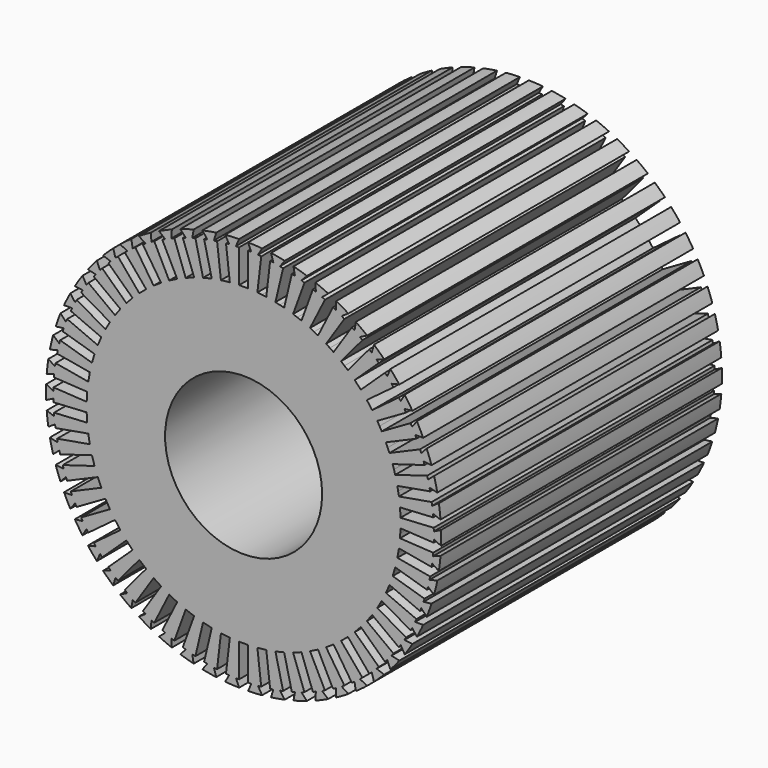
from build123d import *

# Parameters (mm, degrees)
F0_R     = 98
F1_DEPTH = 438


with BuildPart() as f1:
    # F0 (on Front) → F1 (new body)
    with BuildSketch(Plane.XZ):
        with BuildLine():
            Line((-9.6, 237.27123), (-5.6, 246.436381))
            ThreePointArc((-5.6, 246.436381), (-14.332701, 246.082961), (-23.047384, 245.420187))
            Line((-23.047384, 245.420187), (-18.010421, 236.781379))
            Line((-18.010421, 236.781379), (-21.983375, 236.317007))
            Line((-21.983375, 236.317007), (-17.173082, 195.162326))
            Line((-17.173082, 195.162326), (-22.735217, 194.512206))
            Line((-22.735217, 194.512206), (-28.297352, 193.862085))
            Line((-28.297352, 193.862085), (-33.107644, 235.016766))
            Line((-33.107644, 235.016766), (-37.080598, 234.552395))
            Line((-37.080598, 234.552395), (-34.171653, 244.119946))
            ThreePointArc((-34.171653, 244.119946), (-42.804277, 242.755111), (-51.38309, 241.085105))
            Line((-51.38309, 241.085105), (-45.377281, 233.089465))
            Line((-45.377281, 233.089465), (-49.269461, 232.167002))
            Line((-49.269461, 232.167002), (-39.713927, 191.849035))
            Line((-39.713927, 191.849035), (-45.162978, 190.557586))
            Line((-45.162978, 190.557586), (-50.61203, 189.266137))
            Line((-50.61203, 189.266137), (-60.167563, 229.584104))
            Line((-60.167563, 229.584104), (-64.059743, 228.661641))
            Line((-64.059743, 228.661641), (-62.281193, 238.502208))
            ThreePointArc((-62.281193, 238.502208), (-70.696998, 236.144415), (-79.023929, 233.489761))
            Line((-79.023929, 233.489761), (-72.130492, 226.245417))
            Line((-72.130492, 226.245417), (-75.889262, 224.877336))
            Line((-75.889262, 224.877336), (-61.717709, 185.941315))
            Line((-61.717709, 185.941315), (-66.979988, 184.026002))
            Line((-66.979988, 184.026002), (-72.242267, 182.110689))
            Line((-72.242267, 182.110689), (-86.41382, 221.046711))
            Line((-86.41382, 221.046711), (-90.17259, 219.67863))
            Line((-90.17259, 219.67863), (-89.548486, 229.659136))
            ThreePointArc((-89.548486, 229.659136), (-97.633663, 226.34027), (-105.596104, 222.736869))
            Line((-105.596104, 222.736869), (-97.908261, 216.341787))
            Line((-97.908261, 216.341787), (-101.482791, 214.546591))
            Line((-101.482791, 214.546591), (-82.886865, 177.519058))
            Line((-82.886865, 177.519058), (-87.891208, 175.005782))
            Line((-87.891208, 175.005782), (-92.895551, 172.492507))
            Line((-92.895551, 172.492507), (-111.491477, 209.52004))
            Line((-111.491477, 209.52004), (-115.066008, 207.724843))
            Line((-115.066008, 207.724843), (-115.604789, 217.710318))
            ThreePointArc((-115.604789, 217.710318), (-123.250001, 213.475262), (-130.740273, 208.971843))
            Line((-130.740273, 208.971843), (-122.361989, 203.512506))
            Line((-122.361989, 203.512506), (-125.70394, 201.31447))
            Line((-125.70394, 201.31447), (-102.935119, 166.696159))
            Line((-102.935119, 166.696159), (-107.61385, 163.618909))
            Line((-107.61385, 163.618909), (-112.292582, 160.541659))
            Line((-112.292582, 160.541659), (-135.061403, 195.15997))
            Line((-135.061403, 195.15997), (-138.403355, 192.961934))
            Line((-138.403355, 192.961934), (-140.097736, 202.817342))
            ThreePointArc((-140.097736, 202.817342), (-147.199594, 197.723367), (-154.116404, 192.380831))
            Line((-154.116404, 192.380831), (-145.160981, 187.931068))
            Line((-145.160981, 187.931068), (-148.225158, 185.359917))
            Line((-148.225158, 185.359917), (-121.591351, 153.618982))
            Line((-121.591351, 153.618982), (-125.8812, 150.019371))
            Line((-125.8812, 150.019371), (-130.171049, 146.419761))
            Line((-130.171049, 146.419761), (-156.804856, 178.160696))
            Line((-156.804856, 178.160696), (-159.869034, 175.589546))
            Line((-159.869034, 175.589546), (-162.696102, 185.181609))
            ThreePointArc((-162.696102, 185.181609), (-169.158564, 179.297602), (-175.408375, 173.188198))
            Line((-175.408375, 173.188198), (-165.996919, 169.808184))
            Line((-165.996919, 169.808184), (-168.741886, 166.898689))
            Line((-168.741886, 166.898689), (-138.603269, 138.464371))
            Line((-138.603269, 138.464371), (-142.446222, 134.391079))
            Line((-142.446222, 134.391079), (-146.289175, 130.317786))
            Line((-146.289175, 130.317786), (-176.427792, 158.752104))
            Line((-176.427792, 158.752104), (-179.172759, 155.84261))
            Line((-179.172759, 155.84261), (-183.094282, 165.041613))
            ThreePointArc((-183.094282, 165.041613), (-188.829956, 158.447145), (-194.328249, 151.653492))
            Line((-194.328249, 151.653492), (-184.588034, 149.388936))
            Line((-184.588034, 149.388936), (-186.976669, 146.180443))
            Line((-186.976669, 146.180443), (-153.740816, 121.437267))
            Line((-153.740816, 121.437267), (-157.084904, 116.945377))
            Line((-157.084904, 116.945377), (-160.428992, 112.453487))
            Line((-160.428992, 112.453487), (-193.664845, 137.196663))
            Line((-193.664845, 137.196663), (-196.053479, 133.98817))
            Line((-196.053479, 133.98817), (-201.016426, 142.669712))
            ThreePointArc((-201.016426, 142.669712), (-205.947746, 135.453962), (-210.620167, 128.067932))
            Line((-210.620167, 128.067932), (-200.682913, 126.949458))
            Line((-200.682913, 126.949458), (-202.682913, 123.485357))
            Line((-202.682913, 123.485357), (-166.799281, 102.767932))
            Line((-166.799281, 102.767932), (-169.599281, 97.91819))
            Line((-169.599281, 97.91819), (-172.399281, 93.068448))
            Line((-172.399281, 93.068448), (-208.282913, 113.785872))
            Line((-208.282913, 113.785872), (-210.282913, 110.32177))
            Line((-210.282913, 110.32177), (-216.220167, 118.368448))
            ThreePointArc((-216.220167, 118.368448), (-220.280446, 110.628997), (-224.063808, 102.750474))
            Line((-224.063808, 102.750474), (-214.0639, 102.793207))
            Line((-214.0639, 102.793207), (-215.648219, 99.120343))
            Line((-215.648219, 99.120343), (-177.602073, 82.708838))
            Line((-177.602073, 82.708838), (-179.82012, 77.566828))
            Line((-179.82012, 77.566828), (-182.038166, 72.424817))
            Line((-182.038166, 72.424817), (-220.084312, 88.836322))
            Line((-220.084312, 88.836322), (-221.668631, 85.163458))
            Line((-221.668631, 85.163458), (-228.499902, 92.466453))
            ThreePointArc((-228.499902, 92.466453), (-231.634231, 84.307965), (-234.477371, 76.043491))
            Line((-234.477371, 76.043491), (-224.550039, 77.246854))
            Line((-224.550039, 77.246854), (-225.697252, 73.414896))
            Line((-225.697252, 73.414896), (-186.003101, 61.531248))
            Line((-186.003101, 61.531248), (-187.6092, 56.166507))
            Line((-187.6092, 56.166507), (-189.215298, 50.801765))
            Line((-189.215298, 50.801765), (-228.909448, 62.685414))
            Line((-228.909448, 62.685414), (-230.056661, 58.853456))
            Line((-230.056661, 58.853456), (-237.689567, 65.314009))
            ThreePointArc((-237.689567, 65.314009), (-239.855561, 56.846811), (-241.720029, 48.308151))
            Line((-241.720029, 48.308151), (-231.999524, 50.65587))
            Line((-231.999524, 50.65587), (-232.694117, 46.716639))
            Line((-232.694117, 46.716639), (-191.888757, 39.521554))
            Line((-191.888757, 39.521554), (-192.861187, 34.00663))
            Line((-192.861187, 34.00663), (-193.833616, 28.491707))
            Line((-193.833616, 28.491707), (-234.638977, 35.686793))
            Line((-234.638977, 35.686793), (-235.333569, 31.747562))
            Line((-235.333569, 31.747562), (-243.664889, 37.278304))
            ThreePointArc((-243.664889, 37.278304), (-244.833255, 28.616903), (-245.693839, 19.919526))
            Line((-245.693839, 19.919526), (-236.311614, 23.379853))
            Line((-236.311614, 23.379853), (-236.544193, 19.38662))
            Line((-236.544193, 19.38662), (-195.179446, 16.977398))
            Line((-195.179446, 16.977398), (-195.505057, 11.386872))
            Line((-195.505057, 11.386872), (-195.830668, 5.796347))
            Line((-195.830668, 5.796347), (-237.195416, 8.205569))
            Line((-237.195416, 8.205569), (-237.427995, 4.212336))
            Line((-237.427995, 4.212336), (-246.345061, 8.738475))
            ThreePointArc((-246.345061, 8.738475), (-246.5, -1e-06), (-246.345061, -8.738476))
            Line((-246.345061, -8.738476), (-237.427995, -4.212337))
            Line((-237.427995, -4.212337), (-237.195416, -8.20557))
            Line((-237.195416, -8.20557), (-195.830668, -5.796348))
            Line((-195.830668, -5.796348), (-195.505057, -11.386873))
            Line((-195.505057, -11.386873), (-195.179446, -16.977399))
            Line((-195.179446, -16.977399), (-236.544193, -19.386621))
            Line((-236.544193, -19.386621), (-236.311614, -23.379854))
            Line((-236.311614, -23.379854), (-245.693839, -19.919528))
            ThreePointArc((-245.693839, -19.919528), (-244.833255, -28.616904), (-243.664889, -37.278306))
            Line((-243.664889, -37.278306), (-235.333569, -31.747563))
            Line((-235.333569, -31.747563), (-234.638976, -35.686794))
            Line((-234.638976, -35.686794), (-193.833616, -28.491708))
            Line((-193.833616, -28.491708), (-192.861186, -34.006631))
            Line((-192.861186, -34.006631), (-191.888757, -39.521555))
            Line((-191.888757, -39.521555), (-232.694117, -46.716641))
            Line((-232.694117, -46.716641), (-231.999524, -50.655872))
            Line((-231.999524, -50.655872), (-241.720029, -48.308153))
            ThreePointArc((-241.720029, -48.308153), (-239.85556, -56.846813), (-237.689567, -65.31401))
            Line((-237.689567, -65.31401), (-230.056661, -58.853457))
            Line((-230.056661, -58.853457), (-228.909448, -62.685415))
            Line((-228.909448, -62.685415), (-189.215297, -50.801766))
            Line((-189.215297, -50.801766), (-187.609199, -56.166508))
            Line((-187.609199, -56.166508), (-186.003101, -61.531249))
            Line((-186.003101, -61.531249), (-225.697251, -73.414898))
            Line((-225.697251, -73.414898), (-224.550039, -77.246856))
            Line((-224.550039, -77.246856), (-234.47737, -76.043493))
            ThreePointArc((-234.47737, -76.043493), (-231.634231, -84.307966), (-228.499901, -92.466455))
            Line((-228.499901, -92.466455), (-221.66863, -85.163459))
            Line((-221.66863, -85.163459), (-220.084311, -88.836324))
            Line((-220.084311, -88.836324), (-182.038166, -72.424818))
            Line((-182.038166, -72.424818), (-179.820119, -77.566829))
            Line((-179.820119, -77.566829), (-177.602073, -82.708839))
            Line((-177.602073, -82.708839), (-215.648218, -99.120344))
            Line((-215.648218, -99.120344), (-214.063899, -102.793208))
            Line((-214.063899, -102.793208), (-224.063808, -102.750475))
            ThreePointArc((-224.063808, -102.750475), (-220.280446, -110.628998), (-216.220166, -118.368449))
            Line((-216.220166, -118.368449), (-210.282912, -110.321772))
            Line((-210.282912, -110.321772), (-208.282912, -113.785873))
            Line((-208.282912, -113.785873), (-172.399281, -93.068449))
            Line((-172.399281, -93.068449), (-169.599281, -97.918191))
            Line((-169.599281, -97.918191), (-166.799281, -102.767933))
            Line((-166.799281, -102.767933), (-202.682912, -123.485358))
            Line((-202.682912, -123.485358), (-200.682912, -126.949459))
            Line((-200.682912, -126.949459), (-210.620166, -128.067933))
            ThreePointArc((-210.620166, -128.067933), (-205.947745, -135.453964), (-201.016425, -142.669713))
            Line((-201.016425, -142.669713), (-196.053479, -133.988171))
            Line((-196.053479, -133.988171), (-193.664844, -137.196664))
            Line((-193.664844, -137.196664), (-160.428991, -112.453488))
            Line((-160.428991, -112.453488), (-157.084903, -116.945378))
            Line((-157.084903, -116.945378), (-153.740815, -121.437268))
            Line((-153.740815, -121.437268), (-186.976668, -146.180444))
            Line((-186.976668, -146.180444), (-184.588034, -149.388937))
            Line((-184.588034, -149.388937), (-194.328248, -151.653493))
            ThreePointArc((-194.328248, -151.653493), (-188.829955, -158.447146), (-183.094281, -165.041614))
            Line((-183.094281, -165.041614), (-179.172758, -155.842611))
            Line((-179.172758, -155.842611), (-176.427791, -158.752105))
            Line((-176.427791, -158.752105), (-146.289175, -130.317787))
            Line((-146.289175, -130.317787), (-142.446221, -134.391079))
            Line((-142.446221, -134.391079), (-138.603268, -138.464372))
            Line((-138.603268, -138.464372), (-168.741885, -166.89869))
            Line((-168.741885, -166.89869), (-165.996918, -169.808185))
            Line((-165.996918, -169.808185), (-175.408374, -173.188199))
            ThreePointArc((-175.408374, -173.188199), (-169.158563, -179.297603), (-162.696101, -185.18161))
            Line((-162.696101, -185.18161), (-159.869033, -175.589546))
            Line((-159.869033, -175.589546), (-156.804855, -178.160697))
            Line((-156.804855, -178.160697), (-130.171048, -146.419761))
            Line((-130.171048, -146.419761), (-125.881199, -150.019372))
            Line((-125.881199, -150.019372), (-121.59135, -153.618983))
            Line((-121.59135, -153.618983), (-148.225157, -185.359918))
            Line((-148.225157, -185.359918), (-145.16098, -187.931069))
            Line((-145.16098, -187.931069), (-154.116403, -192.380831))
            ThreePointArc((-154.116403, -192.380831), (-147.199592, -197.723367), (-140.097735, -202.817343))
            Line((-140.097735, -202.817343), (-138.403354, -192.961935))
            Line((-138.403354, -192.961935), (-135.061402, -195.159971))
            Line((-135.061402, -195.159971), (-112.292581, -160.54166))
            Line((-112.292581, -160.54166), (-107.613849, -163.61891))
            Line((-107.613849, -163.61891), (-102.935118, -166.69616))
            Line((-102.935118, -166.69616), (-125.703939, -201.314471))
            Line((-125.703939, -201.314471), (-122.361988, -203.512507))
            Line((-122.361988, -203.512507), (-130.740272, -208.971843))
            ThreePointArc((-130.740272, -208.971843), (-123.25, -213.475262), (-115.604788, -217.710319))
            Line((-115.604788, -217.710319), (-115.066006, -207.724844))
            Line((-115.066006, -207.724844), (-111.491476, -209.52004))
            Line((-111.491476, -209.52004), (-92.89555, -172.492507))
            Line((-92.89555, -172.492507), (-87.891207, -175.005783))
            Line((-87.891207, -175.005783), (-82.886864, -177.519058))
            Line((-82.886864, -177.519058), (-101.48279, -214.546591))
            Line((-101.48279, -214.546591), (-97.90826, -216.341788))
            Line((-97.90826, -216.341788), (-105.596103, -222.73687))
            ThreePointArc((-105.596103, -222.73687), (-97.633662, -226.340271), (-89.548485, -229.659136))
            Line((-89.548485, -229.659136), (-90.172589, -219.678631))
            Line((-90.172589, -219.678631), (-86.413818, -221.046711))
            Line((-86.413818, -221.046711), (-72.242265, -182.11069))
            Line((-72.242265, -182.11069), (-66.979987, -184.026002))
            Line((-66.979987, -184.026002), (-61.717708, -185.941315))
            Line((-61.717708, -185.941315), (-75.889261, -224.877337))
            Line((-75.889261, -224.877337), (-72.13049, -226.245417))
            Line((-72.13049, -226.245417), (-79.023927, -233.489762))
            ThreePointArc((-79.023927, -233.489762), (-70.696996, -236.144415), (-62.281191, -238.502208))
            Line((-62.281191, -238.502208), (-64.059742, -228.661641))
            Line((-64.059742, -228.661641), (-60.167562, -229.584104))
            Line((-60.167562, -229.584104), (-50.612028, -189.266137))
            Line((-50.612028, -189.266137), (-45.162977, -190.557586))
            Line((-45.162977, -190.557586), (-39.713926, -191.849035))
            Line((-39.713926, -191.849035), (-49.26946, -232.167002))
            Line((-49.26946, -232.167002), (-45.37728, -233.089466))
            Line((-45.37728, -233.089466), (-51.383089, -241.085106))
            ThreePointArc((-51.383089, -241.085106), (-42.804275, -242.755111), (-34.171652, -244.119946))
            Line((-34.171652, -244.119946), (-37.080596, -234.552395))
            Line((-37.080596, -234.552395), (-33.107643, -235.016766))
            Line((-33.107643, -235.016766), (-28.297351, -193.862085))
            Line((-28.297351, -193.862085), (-22.735216, -194.512206))
            Line((-22.735216, -194.512206), (-17.173081, -195.162326))
            Line((-17.173081, -195.162326), (-21.983373, -236.317007))
            Line((-21.983373, -236.317007), (-18.01042, -236.781379))
            Line((-18.01042, -236.781379), (-23.047382, -245.420187))
            ThreePointArc((-23.047382, -245.420187), (-14.3327, -246.082961), (-5.6, -246.436381))
            Line((-5.6, -246.436381), (-9.6, -237.27123))
            Line((-9.6, -237.27123), (-5.6, -237.27123))
            Line((-5.6, -237.27123), (-5.6, -195.836381))
            Line((-5.6, -195.836381), (0, -195.836381))
            Line((0, -195.836381), (5.6, -195.836381))
            Line((5.6, -195.836381), (5.6, -237.27123))
            Line((5.6, -237.27123), (9.6, -237.27123))
            Line((9.6, -237.27123), (5.6, -246.436381))
            ThreePointArc((5.6, -246.436381), (14.332701, -246.082961), (23.047383, -245.420187))
            Line((23.047383, -245.420187), (18.010421, -236.781379))
            Line((18.010421, -236.781379), (21.983374, -236.317007))
            Line((21.983374, -236.317007), (17.173082, -195.162326))
            Line((17.173082, -195.162326), (22.735217, -194.512206))
            Line((22.735217, -194.512206), (28.297351, -193.862085))
            Line((28.297351, -193.862085), (33.107644, -235.016766))
            Line((33.107644, -235.016766), (37.080597, -234.552395))
            Line((37.080597, -234.552395), (34.171653, -244.119946))
            ThreePointArc((34.171653, -244.119946), (42.804276, -242.755111), (51.38309, -241.085105))
            Line((51.38309, -241.085105), (45.377281, -233.089465))
            Line((45.377281, -233.089465), (49.26946, -232.167002))
            Line((49.26946, -232.167002), (39.713927, -191.849035))
            Line((39.713927, -191.849035), (45.162978, -190.557586))
            Line((45.162978, -190.557586), (50.612029, -189.266137))
            Line((50.612029, -189.266137), (60.167563, -229.584104))
            Line((60.167563, -229.584104), (64.059742, -228.661641))
            Line((64.059742, -228.661641), (62.281192, -238.502208))
            ThreePointArc((62.281192, -238.502208), (70.696997, -236.144415), (79.023928, -233.489762))
            Line((79.023928, -233.489762), (72.130491, -226.245417))
            Line((72.130491, -226.245417), (75.889262, -224.877336))
            Line((75.889262, -224.877336), (61.717709, -185.941315))
            Line((61.717709, -185.941315), (66.979987, -184.026002))
            Line((66.979987, -184.026002), (72.242266, -182.110689))
            Line((72.242266, -182.110689), (86.413819, -221.046711))
            Line((86.413819, -221.046711), (90.17259, -219.67863))
            Line((90.17259, -219.67863), (89.548485, -229.659136))
            ThreePointArc((89.548485, -229.659136), (97.633663, -226.34027), (105.596103, -222.736869))
            Line((105.596103, -222.736869), (97.90826, -216.341788))
            Line((97.90826, -216.341788), (101.482791, -214.546591))
            Line((101.482791, -214.546591), (82.886865, -177.519058))
            Line((82.886865, -177.519058), (87.891208, -175.005782))
            Line((87.891208, -175.005782), (92.89555, -172.492507))
            Line((92.89555, -172.492507), (111.491477, -209.52004))
            Line((111.491477, -209.52004), (115.066007, -207.724843))
            Line((115.066007, -207.724843), (115.604789, -217.710318))
            ThreePointArc((115.604789, -217.710318), (123.25, -213.475262), (130.740273, -208.971843))
            Line((130.740273, -208.971843), (122.361988, -203.512507))
            Line((122.361988, -203.512507), (125.70394, -201.314471))
            Line((125.70394, -201.314471), (102.935118, -166.69616))
            Line((102.935118, -166.69616), (107.61385, -163.618909))
            Line((107.61385, -163.618909), (112.292582, -160.541659))
            Line((112.292582, -160.541659), (135.061403, -195.15997))
            Line((135.061403, -195.15997), (138.403354, -192.961934))
            Line((138.403354, -192.961934), (140.097736, -202.817342))
            ThreePointArc((140.097736, -202.817342), (147.199593, -197.723367), (154.116404, -192.380831))
            Line((154.116404, -192.380831), (145.16098, -187.931068))
            Line((145.16098, -187.931068), (148.225158, -185.359918))
            Line((148.225158, -185.359918), (121.591351, -153.618982))
            Line((121.591351, -153.618982), (125.8812, -150.019371))
            Line((125.8812, -150.019371), (130.171048, -146.419761))
            Line((130.171048, -146.419761), (156.804856, -178.160696))
            Line((156.804856, -178.160696), (159.869034, -175.589546))
            Line((159.869034, -175.589546), (162.696102, -185.18161))
            ThreePointArc((162.696102, -185.18161), (169.158564, -179.297602), (175.408375, -173.188198))
            Line((175.408375, -173.188198), (165.996919, -169.808184))
            Line((165.996919, -169.808184), (168.741886, -166.89869))
            Line((168.741886, -166.89869), (138.603269, -138.464371))
            Line((138.603269, -138.464371), (142.446222, -134.391079))
            Line((142.446222, -134.391079), (146.289175, -130.317786))
            Line((146.289175, -130.317786), (176.427792, -158.752105))
            Line((176.427792, -158.752105), (179.172758, -155.84261))
            Line((179.172758, -155.84261), (183.094281, -165.041613))
            ThreePointArc((183.094281, -165.041613), (188.829955, -158.447146), (194.328249, -151.653492))
            Line((194.328249, -151.653492), (184.588034, -149.388936))
            Line((184.588034, -149.388936), (186.976669, -146.180443))
            Line((186.976669, -146.180443), (153.740815, -121.437267))
            Line((153.740815, -121.437267), (157.084904, -116.945377))
            Line((157.084904, -116.945377), (160.428992, -112.453488))
            Line((160.428992, -112.453488), (193.664845, -137.196663))
            Line((193.664845, -137.196663), (196.053479, -133.988171))
            Line((196.053479, -133.988171), (201.016425, -142.669712))
            ThreePointArc((201.016425, -142.669712), (205.947746, -135.453963), (210.620167, -128.067933))
            Line((210.620167, -128.067933), (200.682913, -126.949459))
            Line((200.682913, -126.949459), (202.682913, -123.485357))
            Line((202.682913, -123.485357), (166.799281, -102.767933))
            Line((166.799281, -102.767933), (169.599281, -97.91819))
            Line((169.599281, -97.91819), (172.399281, -93.068448))
            Line((172.399281, -93.068448), (208.282913, -113.785872))
            Line((208.282913, -113.785872), (210.282913, -110.321771))
            Line((210.282913, -110.321771), (216.220167, -118.368448))
            ThreePointArc((216.220167, -118.368448), (220.280446, -110.628998), (224.063808, -102.750474))
            Line((224.063808, -102.750474), (214.063899, -102.793208))
            Line((214.063899, -102.793208), (215.648218, -99.120343))
            Line((215.648218, -99.120343), (177.602073, -82.708838))
            Line((177.602073, -82.708838), (179.82012, -77.566828))
            Line((179.82012, -77.566828), (182.038166, -72.424818))
            Line((182.038166, -72.424818), (220.084312, -88.836323))
            Line((220.084312, -88.836323), (221.668631, -85.163458))
            Line((221.668631, -85.163458), (228.499901, -92.466454))
            ThreePointArc((228.499901, -92.466454), (231.634231, -84.307965), (234.477371, -76.043492))
            Line((234.477371, -76.043492), (224.550039, -77.246855))
            Line((224.550039, -77.246855), (225.697252, -73.414897))
            Line((225.697252, -73.414897), (186.003101, -61.531248))
            Line((186.003101, -61.531248), (187.609199, -56.166507))
            Line((187.609199, -56.166507), (189.215298, -50.801766))
            Line((189.215298, -50.801766), (228.909448, -62.685414))
            Line((228.909448, -62.685414), (230.056661, -58.853456))
            Line((230.056661, -58.853456), (237.689567, -65.314009))
            ThreePointArc((237.689567, -65.314009), (239.855561, -56.846812), (241.720029, -48.308152))
            Line((241.720029, -48.308152), (231.999524, -50.655871))
            Line((231.999524, -50.655871), (232.694117, -46.71664))
            Line((232.694117, -46.71664), (191.888757, -39.521554))
            Line((191.888757, -39.521554), (192.861187, -34.006631))
            Line((192.861187, -34.006631), (193.833616, -28.491707))
            Line((193.833616, -28.491707), (234.638977, -35.686793))
            Line((234.638977, -35.686793), (235.333569, -31.747562))
            Line((235.333569, -31.747562), (243.664889, -37.278305))
            ThreePointArc((243.664889, -37.278305), (244.833255, -28.616903), (245.693839, -19.919527))
            Line((245.693839, -19.919527), (236.311614, -23.379853))
            Line((236.311614, -23.379853), (236.544193, -19.386621))
            Line((236.544193, -19.386621), (195.179446, -16.977398))
            Line((195.179446, -16.977398), (195.505057, -11.386873))
            Line((195.505057, -11.386873), (195.830668, -5.796347))
            Line((195.830668, -5.796347), (237.195416, -8.205569))
            Line((237.195416, -8.205569), (237.427995, -4.212337))
            Line((237.427995, -4.212337), (246.345061, -8.738475))
            ThreePointArc((246.345061, -8.738475), (246.5, 0), (246.345061, 8.738476))
            Line((246.345061, 8.738476), (237.427995, 4.212337))
            Line((237.427995, 4.212337), (237.195416, 8.20557))
            Line((237.195416, 8.20557), (195.830668, 5.796347))
            Line((195.830668, 5.796347), (195.505057, 11.386873))
            Line((195.505057, 11.386873), (195.179446, 16.977399))
            Line((195.179446, 16.977399), (236.544193, 19.386621))
            Line((236.544193, 19.386621), (236.311614, 23.379854))
            Line((236.311614, 23.379854), (245.693839, 19.919527))
            ThreePointArc((245.693839, 19.919527), (244.833255, 28.616904), (243.664889, 37.278305))
            Line((243.664889, 37.278305), (235.333569, 31.747562))
            Line((235.333569, 31.747562), (234.638976, 35.686793))
            Line((234.638976, 35.686793), (193.833616, 28.491707))
            Line((193.833616, 28.491707), (192.861187, 34.006631))
            Line((192.861187, 34.006631), (191.888757, 39.521554))
            Line((191.888757, 39.521554), (232.694117, 46.71664))
            Line((232.694117, 46.71664), (231.999524, 50.655871))
            Line((231.999524, 50.655871), (241.720029, 48.308152))
            ThreePointArc((241.720029, 48.308152), (239.855561, 56.846812), (237.689567, 65.31401))
            Line((237.689567, 65.31401), (230.056661, 58.853457))
            Line((230.056661, 58.853457), (228.909448, 62.685415))
            Line((228.909448, 62.685415), (189.215297, 50.801766))
            Line((189.215297, 50.801766), (187.609199, 56.166507))
            Line((187.609199, 56.166507), (186.003101, 61.531249))
            Line((186.003101, 61.531249), (225.697252, 73.414897))
            Line((225.697252, 73.414897), (224.550039, 77.246855))
            Line((224.550039, 77.246855), (234.477371, 76.043492))
            ThreePointArc((234.477371, 76.043492), (231.634231, 84.307966), (228.499901, 92.466454))
            Line((228.499901, 92.466454), (221.668631, 85.163459))
            Line((221.668631, 85.163459), (220.084312, 88.836323))
            Line((220.084312, 88.836323), (182.038166, 72.424818))
            Line((182.038166, 72.424818), (179.82012, 77.566828))
            Line((179.82012, 77.566828), (177.602073, 82.708838))
            Line((177.602073, 82.708838), (215.648218, 99.120344))
            Line((215.648218, 99.120344), (214.063899, 102.793208))
            Line((214.063899, 102.793208), (224.063808, 102.750475))
            ThreePointArc((224.063808, 102.750475), (220.280446, 110.628998), (216.220166, 118.368448))
            Line((216.220166, 118.368448), (210.282913, 110.321771))
            Line((210.282913, 110.321771), (208.282913, 113.785873))
            Line((208.282913, 113.785873), (172.399281, 93.068448))
            Line((172.399281, 93.068448), (169.599281, 97.918191))
            Line((169.599281, 97.918191), (166.799281, 102.767933))
            Line((166.799281, 102.767933), (202.682913, 123.485357))
            Line((202.682913, 123.485357), (200.682913, 126.949459))
            Line((200.682913, 126.949459), (210.620166, 128.067933))
            ThreePointArc((210.620166, 128.067933), (205.947745, 135.453963), (201.016425, 142.669713))
            Line((201.016425, 142.669713), (196.053479, 133.988171))
            Line((196.053479, 133.988171), (193.664844, 137.196664))
            Line((193.664844, 137.196664), (160.428991, 112.453488))
            Line((160.428991, 112.453488), (157.084903, 116.945378))
            Line((157.084903, 116.945378), (153.740815, 121.437268))
            Line((153.740815, 121.437268), (186.976668, 146.180443))
            Line((186.976668, 146.180443), (184.588034, 149.388936))
            Line((184.588034, 149.388936), (194.328249, 151.653492))
            ThreePointArc((194.328249, 151.653492), (188.829955, 158.447146), (183.094281, 165.041614))
            Line((183.094281, 165.041614), (179.172758, 155.842611))
            Line((179.172758, 155.842611), (176.427792, 158.752105))
            Line((176.427792, 158.752105), (146.289175, 130.317787))
            Line((146.289175, 130.317787), (142.446222, 134.391079))
            Line((142.446222, 134.391079), (138.603269, 138.464371))
            Line((138.603269, 138.464371), (168.741885, 166.89869))
            Line((168.741885, 166.89869), (165.996919, 169.808184))
            Line((165.996919, 169.808184), (175.408375, 173.188198))
            ThreePointArc((175.408375, 173.188198), (169.158564, 179.297603), (162.696101, 185.18161))
            Line((162.696101, 185.18161), (159.869033, 175.589546))
            Line((159.869033, 175.589546), (156.804855, 178.160697))
            Line((156.804855, 178.160697), (130.171048, 146.419761))
            Line((130.171048, 146.419761), (125.881199, 150.019372))
            Line((125.881199, 150.019372), (121.59135, 153.618982))
            Line((121.59135, 153.618982), (148.225158, 185.359918))
            Line((148.225158, 185.359918), (145.16098, 187.931068))
            Line((145.16098, 187.931068), (154.116403, 192.380831))
            ThreePointArc((154.116403, 192.380831), (147.199593, 197.723367), (140.097736, 202.817343))
            Line((140.097736, 202.817343), (138.403354, 192.961934))
            Line((138.403354, 192.961934), (135.061403, 195.15997))
            Line((135.061403, 195.15997), (112.292581, 160.541659))
            Line((112.292581, 160.541659), (107.61385, 163.61891))
            Line((107.61385, 163.61891), (102.935118, 166.69616))
            Line((102.935118, 166.69616), (125.703939, 201.314471))
            Line((125.703939, 201.314471), (122.361988, 203.512507))
            Line((122.361988, 203.512507), (130.740272, 208.971843))
            ThreePointArc((130.740272, 208.971843), (123.25, 213.475262), (115.604789, 217.710319))
            Line((115.604789, 217.710319), (115.066007, 207.724844))
            Line((115.066007, 207.724844), (111.491476, 209.52004))
            Line((111.491476, 209.52004), (92.89555, 172.492507))
            Line((92.89555, 172.492507), (87.891207, 175.005782))
            Line((87.891207, 175.005782), (82.886865, 177.519058))
            Line((82.886865, 177.519058), (101.482791, 214.546591))
            Line((101.482791, 214.546591), (97.90826, 216.341788))
            Line((97.90826, 216.341788), (105.596103, 222.736869))
            ThreePointArc((105.596103, 222.736869), (97.633662, 226.34027), (89.548485, 229.659136))
            Line((89.548485, 229.659136), (90.172589, 219.67863))
            Line((90.172589, 219.67863), (86.413819, 221.046711))
            Line((86.413819, 221.046711), (72.242266, 182.11069))
            Line((72.242266, 182.11069), (66.979987, 184.026002))
            Line((66.979987, 184.026002), (61.717708, 185.941315))
            Line((61.717708, 185.941315), (75.889261, 224.877337))
            Line((75.889261, 224.877337), (72.130491, 226.245417))
            Line((72.130491, 226.245417), (79.023928, 233.489762))
            ThreePointArc((79.023928, 233.489762), (70.696997, 236.144415), (62.281192, 238.502208))
            Line((62.281192, 238.502208), (64.059742, 228.661641))
            Line((64.059742, 228.661641), (60.167563, 229.584104))
            Line((60.167563, 229.584104), (50.612029, 189.266137))
            Line((50.612029, 189.266137), (45.162978, 190.557586))
            Line((45.162978, 190.557586), (39.713926, 191.849035))
            Line((39.713926, 191.849035), (49.26946, 232.167002))
            Line((49.26946, 232.167002), (45.37728, 233.089466))
            Line((45.37728, 233.089466), (51.383089, 241.085106))
            ThreePointArc((51.383089, 241.085106), (42.804276, 242.755111), (34.171652, 244.119946))
            Line((34.171652, 244.119946), (37.080597, 234.552395))
            Line((37.080597, 234.552395), (33.107643, 235.016766))
            Line((33.107643, 235.016766), (28.297351, 193.862085))
            Line((28.297351, 193.862085), (22.735216, 194.512206))
            Line((22.735216, 194.512206), (17.173081, 195.162326))
            Line((17.173081, 195.162326), (21.983374, 236.317007))
            Line((21.983374, 236.317007), (18.01042, 236.781379))
            Line((18.01042, 236.781379), (23.047383, 245.420187))
            ThreePointArc((23.047383, 245.420187), (14.3327, 246.082961), (5.6, 246.436381))
            Line((5.6, 246.436381), (9.6, 237.27123))
            Line((9.6, 237.27123), (5.6, 237.27123))
            Line((5.6, 237.27123), (5.6, 195.836381))
            Line((5.6, 195.836381), (0, 195.836381))
            Line((0, 195.836381), (-5.6, 195.836381))
            Line((-5.6, 195.836381), (-5.6, 237.27123))
            Line((-5.6, 237.27123), (-9.6, 237.27123))
        make_face()
        Circle(F0_R, mode=Mode.SUBTRACT)
    extrude(amount=F1_DEPTH)


solid = f1.part
